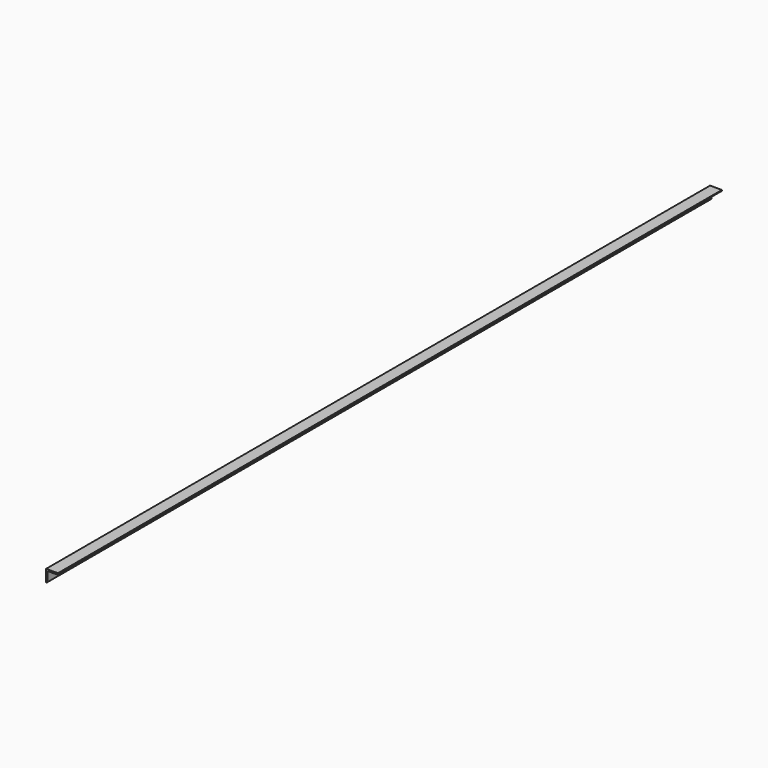
from build123d import *

# Parameters (mm, degrees)
F1_DEPTH = 3556
F2_R     = 5.08


with BuildPart() as f1:
    # F0 (on Front) → F1 (new body)
    with BuildSketch(Plane.XZ):
        Polygon((0, 50.8), (0, 0), (6.35, 0), (6.35, 44.45), (50.8, 44.45), (50.8, 50.8), align=None)
    extrude(amount=F1_DEPTH)

    # F2
    f2_edges = [f1.edges().sort_by_distance(p)[0] for p in [
        (6.35, -1778, 0),
        (50.8, -1778, 44.45),
        (6.35, -1778, 44.45),
    ]]
    fillet(f2_edges, radius=F2_R)


solid = f1.part
